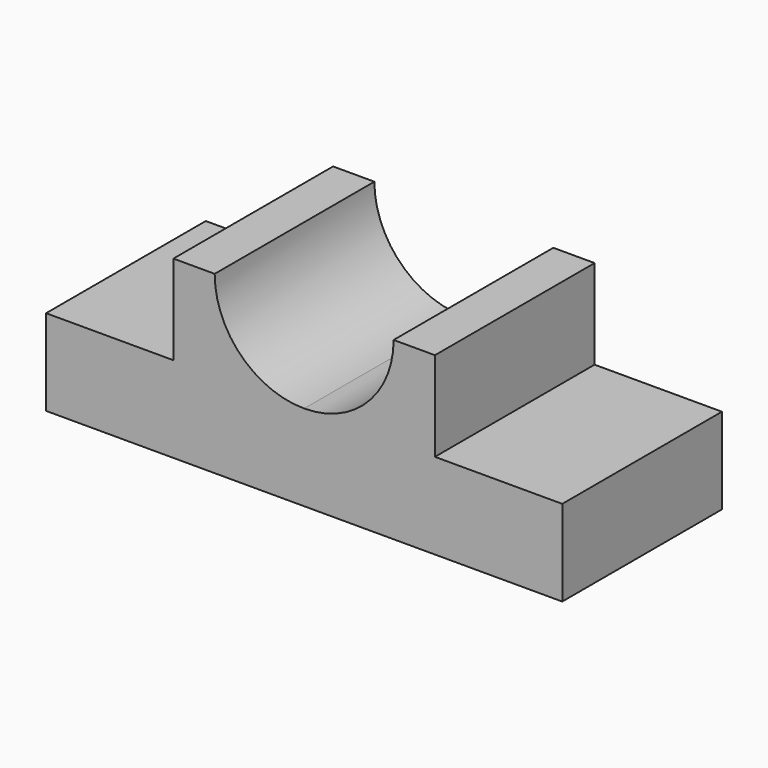
from build123d import *

# Parameters (mm, degrees)
F1_DEPTH = 1473.2


with BuildPart() as f1:
    # F0 (on Front) → F1 (new body)
    with BuildSketch(Plane.XZ):
        Polygon((-304.8, 593.71577), (-1244.6, 593.71577), (-1244.6, -41.28423), (2565.4, -41.28423), (2565.4, 593.71577), (1625.6, 593.71577), (660.4, 593.71577), align=None)
        with BuildLine():
            ThreePointArc((1320.8, 1254.11577), (1127.373318, 787.142452), (660.4, 593.71577))
            Line((660.4, 593.71577), (1625.6, 593.71577))
            Line((1625.6, 593.71577), (1625.6, 1254.11577))
            Line((1625.6, 1254.11577), (1320.8, 1254.11577))
        make_face()
        with BuildLine():
            Line((-304.8, 1254.11577), (-304.8, 593.71577))
            Line((-304.8, 593.71577), (660.4, 593.71577))
            ThreePointArc((660.4, 593.71577), (193.426682, 787.142452), (0, 1254.11577))
            Line((0, 1254.11577), (-304.8, 1254.11577))
        make_face()
    extrude(amount=F1_DEPTH)


solid = f1.part
